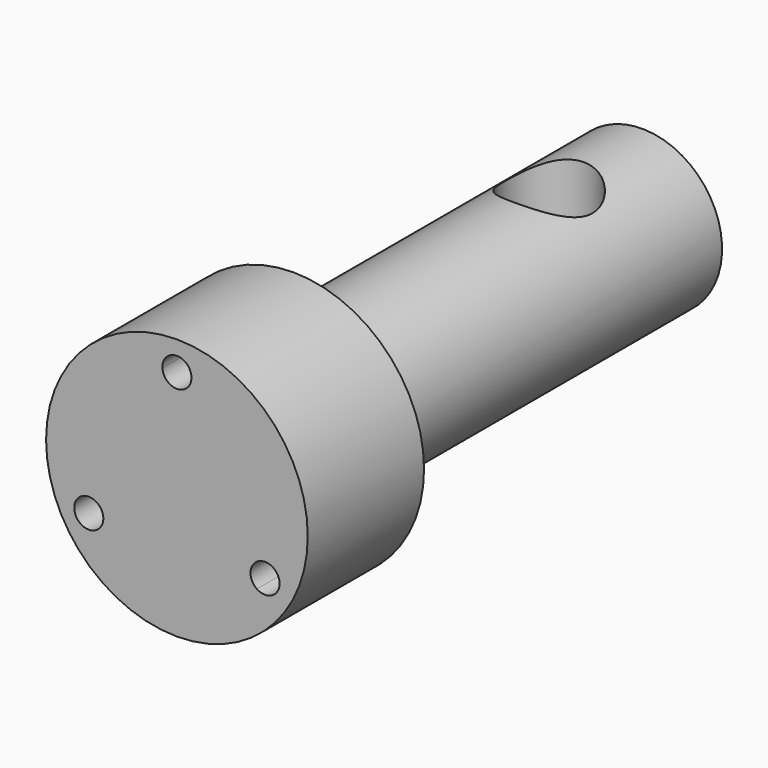
from build123d import *

# Parameters (mm, degrees)
F0_R      = 9
F1_DEPTH  = 20
F2_R      = 0.75
F3_DEPTH  = 8
F4_R      = 9
F4_R_2    = 5.5
F5_DEPTH  = 30
F6_DEPTH  = 10
F7_R      = 3
F8_DEPTH  = 12.5
F10_D     = 3.2
F10_DEPTH = 7.25
F10_TIP   = 0.9613769904


with BuildPart() as f1:
    # F0 (on Front) → F1 (new body, symmetric)
    with BuildSketch(Plane.XZ):
        Circle(F0_R)
    extrude(amount=F1_DEPTH, both=True)

    # F2 (on face) → F3 (cut)
    with BuildSketch(Plane.XZ.offset(20)):
        with BuildLine():
            ThreePointArc((1, 7), (-0.0357371137, 7.9993612253), (-0.9974457174, 6.9285714286))
            ThreePointArc((-0.9974457174, 6.9285714286), (0, 6), (0.9974457174, 6.9285714286))
            ThreePointArc((0.9974457174, 6.9285714286), (0.9993612253, 6.9642628863), (1, 7))
        make_face()
        with Locations((0, 7)):
            Circle(F2_R, mode=Mode.SUBTRACT)
        with BuildLine():
            ThreePointArc((-5.0621778265, -3.5), (-5.5315479655, -2.6523963481), (-6.4990417278, -2.6004723841))
            ThreePointArc((-6.4990417278, -2.6004723841), (-6.9282032303, -4), (-5.5015960104, -4.3280990445))
            ThreePointArc((-5.5015960104, -4.3280990445), (-5.178837061, -3.9687313644), (-5.0621778265, -3.5))
        make_face()
        with Locations((-6.0621778265, -3.5)):
            Circle(F2_R, mode=Mode.SUBTRACT)
        with BuildLine():
            ThreePointArc((7.0621778265, -3.5), (6.9097814784, -2.969370139), (6.4990417278, -2.6004723841))
            ThreePointArc((6.4990417278, -2.6004723841), (5.1961524227, -3), (5.5015960104, -4.3280990445))
            ThreePointArc((5.5015960104, -4.3280990445), (6.5309091909, -4.3833407655), (7.0621778265, -3.5))
        make_face()
        with Locations((6.0621778265, -3.5)):
            Circle(F2_R, mode=Mode.SUBTRACT)
    extrude(amount=-F3_DEPTH, mode=Mode.SUBTRACT)

    # F4 (on face) → F5 (cut)
    with BuildSketch(Plane(origin=(0, 20, 0), x_dir=(-1, 0, 0), z_dir=(0, 1, 0))):
        Circle(F4_R)
        Circle(F4_R_2, mode=Mode.SUBTRACT)
    extrude(amount=-F5_DEPTH, mode=Mode.SUBTRACT)

    # F2 (on face) → F6 (cut)
    with BuildSketch(Plane.XZ.offset(20)):
        with Locations((-6.0621778265, -3.5)):
            Circle(F2_R)
        with Locations((0, 7)):
            Circle(F2_R)
        with Locations((6.0621778265, -3.5)):
            Circle(F2_R)
    extrude(amount=-F6_DEPTH, mode=Mode.SUBTRACT)

    # F7 (on Top) → F8 (cut, symmetric)
    with BuildSketch(Plane.XY):
        with Locations((0, 12)):
            Circle(F7_R)
    extrude(amount=F8_DEPTH, both=True, mode=Mode.SUBTRACT)

    # F10
    with Locations(Plane(origin=(0, 20, 0), x_dir=(-1, 0, 0), z_dir=(0, 1, 0))):
        with Locations((0, 0)):
            Hole(F10_D / 2, depth=F10_DEPTH)
            with Locations((0, 0, -(F10_DEPTH + F10_TIP / 2))):  # 118° drill point
                Cone(0, F10_D / 2, F10_TIP, mode=Mode.SUBTRACT)


solid = f1.part
